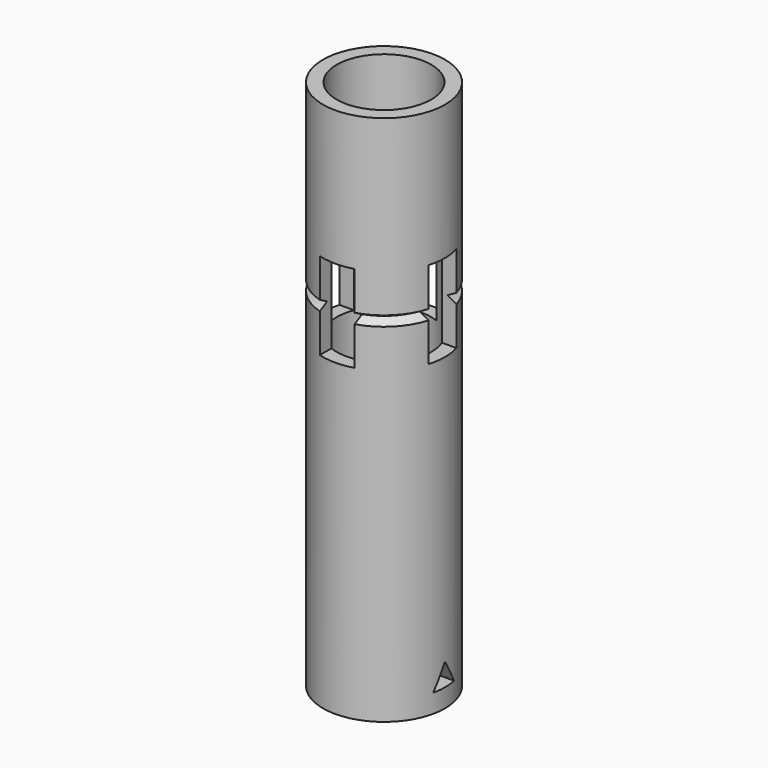
from build123d import *

# Parameters (mm, degrees)
SKETCH_R           = 7
PAD_DEPTH          = 61
SKETCH001_R        = 5.425
POCKET_DEPTH       = 61.001
POCKET001_DEPTH    = 5
SKETCH004_W        = 4
SKETCH004_H        = 10
POCKET002_DEPTH    = 5
POLARPATTERN_COUNT = 4


with BuildPart() as part:
    # Sketch → Pad (new body)
    with BuildSketch(Plane.XY):
        Circle(SKETCH_R)
    extrude(amount=PAD_DEPTH)

    # Sketch001 (on Face3 of Pad) → Pocket (cut, through all)
    with BuildSketch(Plane.XY.offset(61)):
        Circle(SKETCH001_R)
    extrude(amount=-POCKET_DEPTH, mode=Mode.SUBTRACT)

    # Sketch002 (on DatumPlane) → Groove (revolve, cut)
    with BuildSketch(Plane(origin=(0, 0, 30.5), x_dir=(0, 0, -1), z_dir=(1, 0, 0))):
        Polygon((-8.25, 9.031089), (-11.75, 9.031089), (-10, 6), align=None)
    revolve(axis=Axis((0, 0, 0), (0, 0, 1)), mode=Mode.SUBTRACT)

    # Sketch003 (on DatumPlane) → Pocket001 (cut)
    with BuildSketch(Plane.YZ.offset(7)):
        Polygon((0, 4.732051), (-1.5, 2.133975), (1.5, 2.133975), align=None)
    extrude(amount=-POCKET001_DEPTH, mode=Mode.SUBTRACT)

    # Sketch004 (on DatumPlane) → Pocket002 (cut)
    with BuildSketch(Plane.YZ.offset(7)):
        with Locations((0, 40.5)):
            Rectangle(SKETCH004_W, SKETCH004_H)
    pocket002 = extrude(amount=-POCKET002_DEPTH, mode=Mode.SUBTRACT)

    # PolarPattern: Pocket002 ×4 about axis
    polarpattern_axis = Axis((0, 0, 0), (0, 0, 1))
    for i in range(1, POLARPATTERN_COUNT):
        add(pocket002.rotate(polarpattern_axis, i * 360 / POLARPATTERN_COUNT), mode=Mode.SUBTRACT)


solid = part.part
